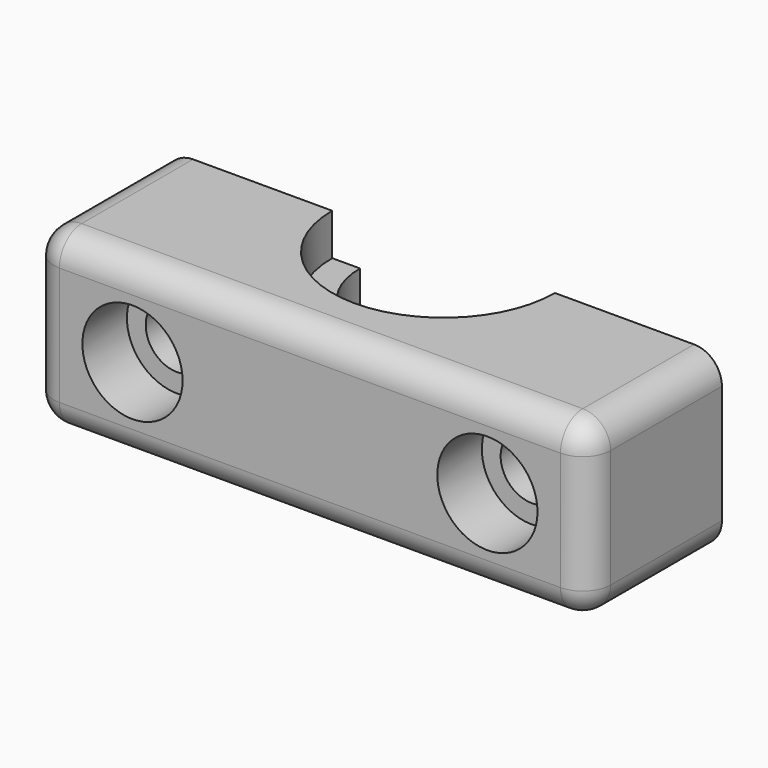
from build123d import *

# Parameters (mm, degrees)
F0_W          = 40
F0_H          = 12.5
F0_R          = 2.25
F1_DEPTH      = 6
F1_DEPTH_BACK = 6
F2_R          = 3.6
F3_DEPTH      = 4
F4_R          = 2
F6_DEPTH      = 6.25
F6_DEPTH_BACK = 6.25
F7_R          = 8
F8_DEPTH      = 3
F9_R          = 8
F10_DEPTH     = 3


with BuildPart() as f1:
    # F0 (on Front) → F1 (new body, two sides)
    with BuildSketch(Plane.XZ) as f1_sk:
        Rectangle(F0_W, F0_H)
        with Locations((-12.75, 0)):
            Circle(F0_R, mode=Mode.SUBTRACT)
        with Locations((12.75, 0)):
            Circle(F0_R, mode=Mode.SUBTRACT)
    extrude(amount=F1_DEPTH)
    extrude(f1_sk.sketch, amount=-F1_DEPTH_BACK)

    # F2 (on face) → F3 (cut)
    with BuildSketch(Plane.XZ.offset(6)):
        with Locations((-12.75, 0)):
            Circle(F2_R)
        with Locations((12.75, 0)):
            Circle(F2_R)
    extrude(amount=-F3_DEPTH, mode=Mode.SUBTRACT)

    # F4
    f4_edges = [f1.edges().sort_by_distance(p)[0] for p in [
        (-20, 0, 6.25),
        (-20, 0, -6.25),
        (20, 0, 6.25),
        (20, 0, -6.25),
        (20, -6, 0),
        (0, -6, 6.25),
        (0, -6, -6.25),
        (-20, -6, 0),
    ]]
    fillet(f4_edges, radius=F4_R)

    # F5 (on Top) → F6 (cut, two sides)
    with BuildSketch(Plane.XY) as f6_sk:
        with BuildLine():
            Line((6, 6), (-6, 6))
            ThreePointArc((-6, 6), (0, 0), (6, 6))
        make_face()
    extrude(amount=-F6_DEPTH, mode=Mode.SUBTRACT)
    extrude(f6_sk.sketch, amount=F6_DEPTH_BACK, mode=Mode.SUBTRACT)

    # F7 (on face) → F8 (cut)
    with BuildSketch(Plane.XY.offset(6.25)):
        with Locations((0, 6)):
            Circle(F7_R)
    extrude(amount=-F8_DEPTH, mode=Mode.SUBTRACT)

    # F9 (on face) → F10 (cut)
    with BuildSketch(Plane(origin=(0, 0, -6.25), x_dir=(1, 0, 0), z_dir=(0, 0, -1))):
        with Locations((0, -6)):
            Circle(F9_R)
    extrude(amount=-F10_DEPTH, mode=Mode.SUBTRACT)


solid = f1.part
